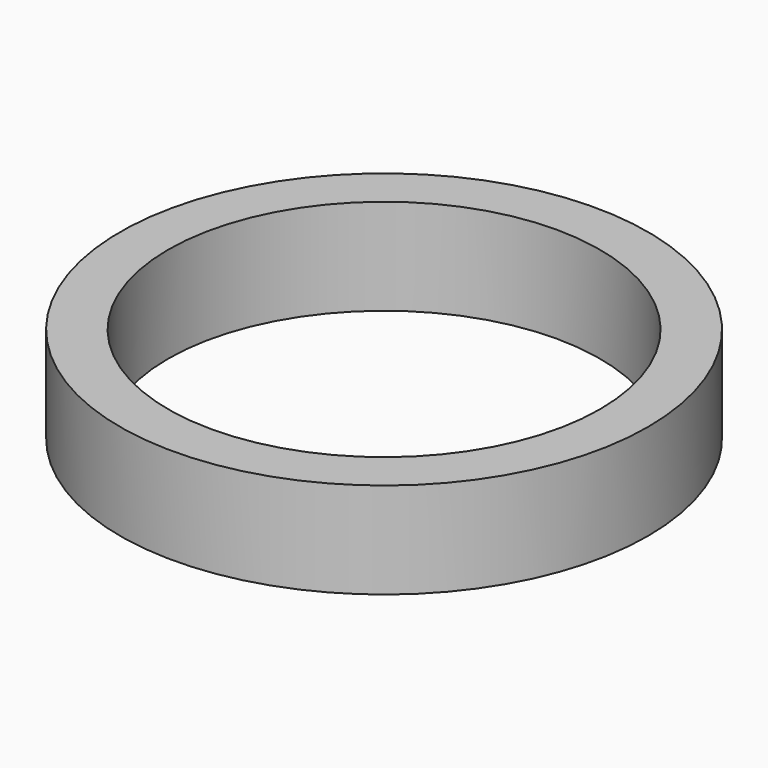
from build123d import *

# Parameters (mm, degrees)
SKETCH_R   = 11
SKETCH_R_2 = 9
PAD_DEPTH  = 4


with BuildPart() as part:
    # Sketch → Pad (new body)
    with BuildSketch(Plane.XY):
        Circle(SKETCH_R)
        Circle(SKETCH_R_2, mode=Mode.SUBTRACT)
    extrude(amount=PAD_DEPTH)


solid = part.part
